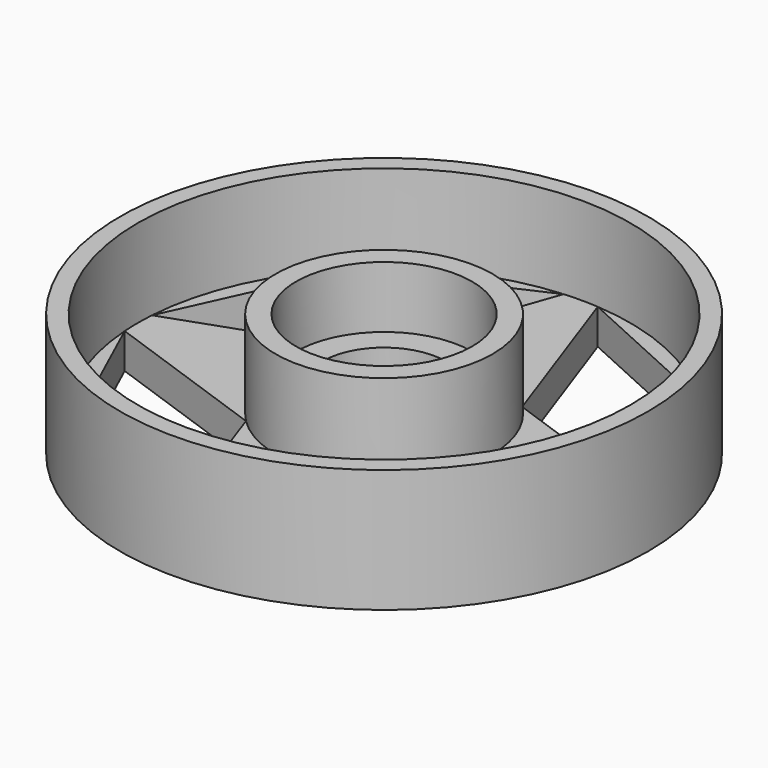
from build123d import *

# Parameters (mm, degrees)
F0_R      = 15
F1_DEPTH  = 7
F2_R      = 14
F3_DEPTH  = 5
F4_R      = 6.167621
F5_DEPTH  = 5
F6_R      = 5
F7_DEPTH  = 3.5
F8_R      = 3.5
F9_DEPTH  = 3.5
F11_DEPTH = 2


with BuildPart() as f1:
    # F0 (on Top) → F1 (new body)
    with BuildSketch(Plane.XY):
        Circle(F0_R)
    extrude(amount=F1_DEPTH)

    # F2 (on face) → F3 (cut)
    with BuildSketch(Plane.XY.offset(7)):
        Circle(F2_R)
    extrude(amount=-F3_DEPTH, mode=Mode.SUBTRACT)

    # F4 (on face) → F5 (join)
    with BuildSketch(Plane.XY.offset(2)):
        Circle(F4_R)
    extrude(amount=F5_DEPTH)

    # F6 (on face) → F7 (cut)
    with BuildSketch(Plane.XY.offset(7)):
        Circle(F6_R)
    extrude(amount=-F7_DEPTH, mode=Mode.SUBTRACT)

    # F8 (on face) → F9 (cut, through all)
    with BuildSketch(Plane.XY.offset(3.5)):
        Circle(F8_R)
    extrude(amount=-F9_DEPTH, mode=Mode.SUBTRACT)

    # F10 (on face) → F11 (cut, through all)
    with BuildSketch(Plane.XY.offset(2)):
        Polygon((0.968024, 13.966493), (4.361166, 4.361166), (13.966493, 0.968024), (9.899495, 9.899495), align=None)
        Polygon((-13.966493, 0.968024), (-4.361166, 4.361166), (-0.968024, 13.966493), (-9.899495, 9.899495), align=None)
        Polygon((-0.968024, -13.966493), (-4.361166, -4.361166), (-13.966493, -0.968024), (-9.899495, -9.899495), align=None)
        Polygon((13.966493, -0.968024), (4.361166, -4.361166), (0.968024, -13.966493), (9.899495, -9.899495), align=None)
    extrude(amount=-F11_DEPTH, mode=Mode.SUBTRACT)


solid = f1.part
